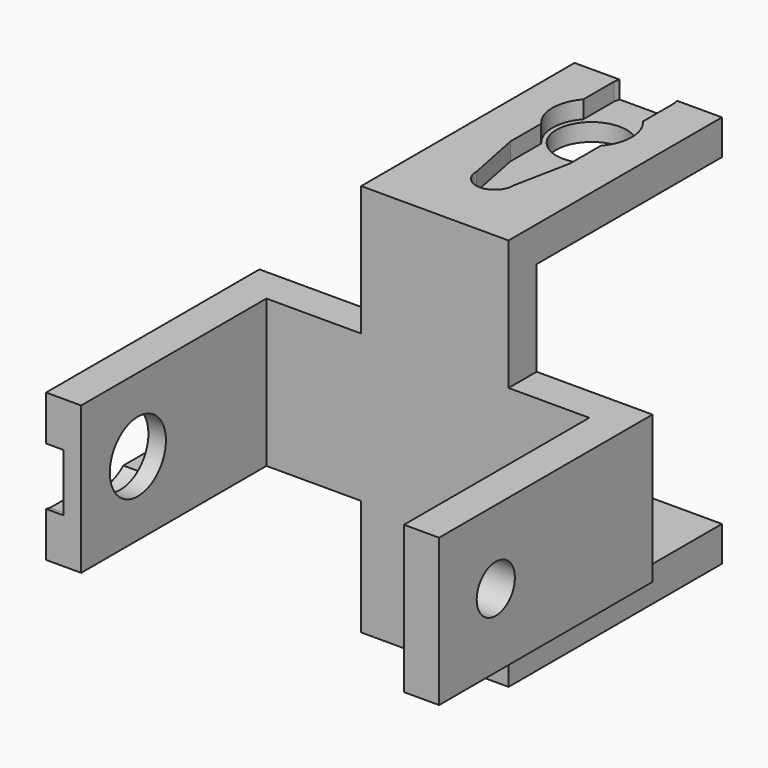
from build123d import *

# Parameters (mm, degrees)
CYLINDER039_R          = 3.4
CYLINDER039_DEPTH      = 44
CYLINDER038_R          = 5
CYLINDER038_DEPTH      = 9
PAD015_DEPTH           = 5
PAD014_DEPTH           = 21
CUT021_PITCH_ANGLE     = 90
CUT021_PLACEMENT_ANGLE = -180
CYLINDER037_R          = 3.4
CYLINDER037_DEPTH      = 44
CYLINDER036_R          = 5
CYLINDER036_DEPTH      = 9
PAD013_DEPTH           = 5
PAD012_DEPTH           = 21


with BuildPart() as cylinder039:
    # Cylinder039 → Cylinder039 (new body)
    with BuildSketch(Plane(origin=(10.5, -10.1, -9), x_dir=(1, 0, 0), z_dir=(0, 0, 1))):
        Circle(CYLINDER039_R)
    extrude(amount=CYLINDER039_DEPTH)


with BuildPart() as cylinder038:
    # Cylinder038 → Cylinder038 (new body)
    with BuildSketch(Plane(origin=(10.5, -10.1, 44), x_dir=(1, 0, 0), z_dir=(0, 0, 1))):
        Circle(CYLINDER038_R)
    extrude(amount=CYLINDER038_DEPTH)


with BuildPart() as fusion031:
    # Sketch015 → Pad015 (new body)
    with BuildSketch(Plane.XY):
        with BuildLine():
            Line((-4.25, 3.75), (-4.25, 9.25))
            Line((-4.25, 9.25), (-2.65, 17.292388))
            ThreePointArc((2.65, 17.292388), (0, 20), (-2.65, 17.292388))
            Line((2.65, 17.292388), (4.25, 9.25))
            Line((4.25, 3.75), (4.25, 9.25))
            ThreePointArc((4.25, -3.75), (5.657274, 0), (4.25, 3.75))
            Line((4.25, -3.75), (4.25, -9.25))
            Line((2.65, -17.292388), (4.25, -9.25))
            ThreePointArc((-2.65, -17.292388), (0, -20), (2.65, -17.292388))
            Line((-4.25, -9.25), (-2.65, -17.292388))
            Line((-4.25, -3.75), (-4.25, -9.25))
            ThreePointArc((-4.25, 3.75), (-5.657274, 0), (-4.25, -3.75))
        make_face()
    extrude(amount=PAD015_DEPTH)


with BuildPart() as fusion031_1:
    # Body015 placement: moved
    add(fusion031.part.moved(Location((10.5, -10, 48))))

    # Fusion031: union Cylinder038
    add(cylinder038.part)


with BuildPart() as obj1:
    # Sketch014 → Pad014 (new body)
    with BuildSketch(Plane.YZ):
        Polygon((-33, -0.5), (0, -0.5), (0, -5.5), (-38, -5.5), (-38, 50.5), (0, 50.5), (0, 45.5), (-33, 45.5), align=None)
    extrude(amount=PAD014_DEPTH)

    # Cut020: cut Fusion031
    add(fusion031_1.part, mode=Mode.SUBTRACT)

    # Cut021: cut Cylinder039
    add(cylinder039.part, mode=Mode.SUBTRACT)


with BuildPart() as obj1_1:
    # Cut021 pitch: moved
    add(obj1.part.rotate(Axis((0, 0, 0), (0, 1, 0)), CUT021_PITCH_ANGLE))


with BuildPart() as obj1_2:
    # Cut021 placement: moved
    add(obj1_1.part.moved(Location((32, -71, 32))).rotate(Axis((32, -71, 32), (0, 0, 1)), CUT021_PLACEMENT_ANGLE))


with BuildPart() as cylinder037:
    # Cylinder037 → Cylinder037 (new body)
    with BuildSketch(Plane(origin=(10.5, -10.1, -9), x_dir=(1, 0, 0), z_dir=(0, 0, 1))):
        Circle(CYLINDER037_R)
    extrude(amount=CYLINDER037_DEPTH)


with BuildPart() as cylinder036:
    # Cylinder036 → Cylinder036 (new body)
    with BuildSketch(Plane(origin=(10.5, -10.1, 44), x_dir=(1, 0, 0), z_dir=(0, 0, 1))):
        Circle(CYLINDER036_R)
    extrude(amount=CYLINDER036_DEPTH)


with BuildPart() as fusion030:
    # Sketch013 → Pad013 (new body)
    with BuildSketch(Plane.XY):
        with BuildLine():
            Line((-4.25, 3.75), (-4.25, 9.25))
            Line((-4.25, 9.25), (-2.65, 17.292388))
            ThreePointArc((2.65, 17.292388), (0, 20), (-2.65, 17.292388))
            Line((2.65, 17.292388), (4.25, 9.25))
            Line((4.25, 3.75), (4.25, 9.25))
            ThreePointArc((4.25, -3.75), (5.657274, 0), (4.25, 3.75))
            Line((4.25, -3.75), (4.25, -9.25))
            Line((2.65, -17.292388), (4.25, -9.25))
            ThreePointArc((-2.65, -17.292388), (0, -20), (2.65, -17.292388))
            Line((-4.25, -9.25), (-2.65, -17.292388))
            Line((-4.25, -3.75), (-4.25, -9.25))
            ThreePointArc((-4.25, 3.75), (-5.657274, 0), (-4.25, -3.75))
        make_face()
    extrude(amount=PAD013_DEPTH)


with BuildPart() as fusion030_1:
    # Body013 placement: moved
    add(fusion030.part.moved(Location((10.5, -10, 48))))

    # Fusion030: union Cylinder036
    add(cylinder036.part)


with BuildPart() as cadera:
    # Sketch012 → Pad012 (new body)
    with BuildSketch(Plane.YZ):
        Polygon((-33, -0.5), (0, -0.5), (0, -5.5), (-38, -5.5), (-38, 50.5), (0, 50.5), (0, 45.5), (-33, 45.5), align=None)
    extrude(amount=PAD012_DEPTH)

    # Cut018: cut Fusion030
    add(fusion030_1.part, mode=Mode.SUBTRACT)

    # Cut019: cut Cylinder037
    add(cylinder037.part, mode=Mode.SUBTRACT)

    # Fusion032: union obj1
    add(obj1_2.part)


solid = cadera.part
